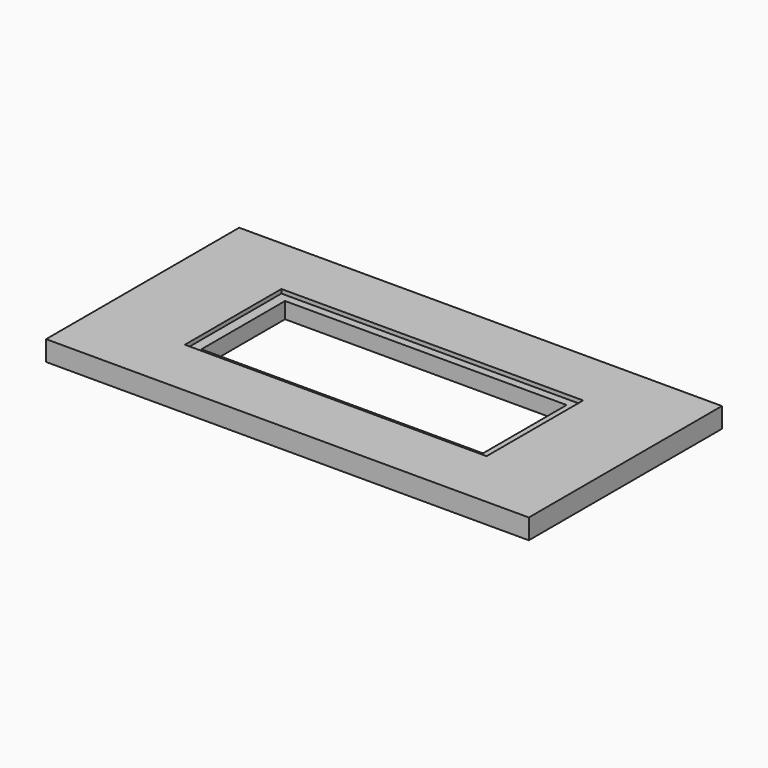
from build123d import *

# Parameters (mm, degrees)
F0_W     = 120
F0_H     = 60
F3_DEPTH = 5
F1_W     = 75
F1_H     = 30
F4_DEPTH = 1
F2_W     = 70
F2_H     = 26
F5_DEPTH = 10


with BuildPart() as f3:
    # F0 (on Top) → F3 (new body)
    with BuildSketch(Plane.XY):
        Rectangle(F0_W, F0_H)
    extrude(amount=-F3_DEPTH)

    # F1 (on Top) → F4 (cut)
    with BuildSketch(Plane.XY):
        Rectangle(F1_W, F1_H)
    extrude(amount=-F4_DEPTH, mode=Mode.SUBTRACT)

    # F2 (on Top) → F5 (cut)
    with BuildSketch(Plane.XY):
        Rectangle(F2_W, F2_H)
    extrude(amount=-F5_DEPTH, mode=Mode.SUBTRACT)


solid = f3.part
